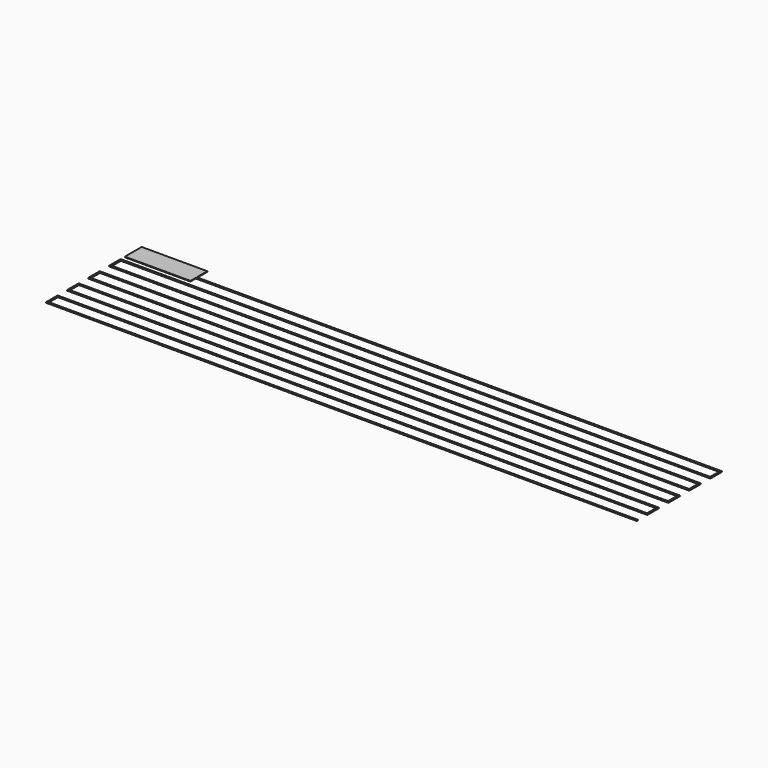
from build123d import *

# Parameters (mm, degrees)
F0_W     = 20
F0_H     = 0.4
F0_H_2   = 2
F0_H_3   = 4
F1_DEPTH = 0.2


with BuildPart() as f1:
    # F0 (on Top) → F1 (new body)
    with BuildSketch(Plane.XY):
        with Locations((-43.7241180241, 27.8777200698)):
            Rectangle(F0_W, F0_H)
        Polygon((-33.7241180241, 28.0777200698), (-33.7241180241, 27.6777200698), (125.8758819759, 27.6777200698), (125.8758819759, 24.0777200698), (-53.7241180241, 24.0777200698), (-53.7241180241, 19.6777200698), (125.8758819759, 19.6777200698), (125.8758819759, 16.0777200698), (-53.7241180241, 16.0777200698), (-53.7241180241, 11.6777200698), (125.8758819759, 11.6777200698), (125.8758819759, 8.0777200698), (-53.7241180241, 8.0777200698), (-53.7241180241, 3.6777200698), (125.8758819759, 3.6777200698), (125.8758819759, 0.0777200698), (-53.7241180241, 0.0777200698), (-53.7241180241, -4.3222799302), (126.2758819759, -4.3222799302), (126.2758819759, -3.9222799302), (-53.3241180241, -3.9222799302), (-53.3241180241, -0.3222799302), (126.2758819759, -0.3222799302), (126.2758819759, 4.0777200698), (-53.3241180241, 4.0777200698), (-53.3241180241, 7.6777200698), (126.2758819759, 7.6777200698), (126.2758819759, 12.0777200698), (-53.3241180241, 12.0777200698), (-53.3241180241, 15.6777200698), (126.2758819759, 15.6777200698), (126.2758819759, 20.0777200698), (-53.3241180241, 20.0777200698), (-53.3241180241, 23.6777200698), (126.2758819759, 23.6777200698), (126.2758819759, 28.0777200698), align=None)
        with Locations((-43.7241180241, 26.6777200698)):
            Rectangle(F0_W, F0_H_2)
        with Locations((-43.7241180241, 30.0777200698)):
            Rectangle(F0_W, F0_H_3)
        Polygon((-33.7241180241, 28.0777200698), (-33.7241180241, 27.6777200698), (125.8758819759, 27.6777200698), (125.8758819759, 24.0777200698), (-53.7241180241, 24.0777200698), (-53.7241180241, 19.6777200698), (125.8758819759, 19.6777200698), (125.8758819759, 16.0777200698), (-53.7241180241, 16.0777200698), (-53.7241180241, 11.6777200698), (125.8758819759, 11.6777200698), (125.8758819759, 8.0777200698), (-53.7241180241, 8.0777200698), (-53.7241180241, 3.6777200698), (125.8758819759, 3.6777200698), (125.8758819759, 0.0777200698), (-53.7241180241, 0.0777200698), (-53.7241180241, -4.3222799302), (126.2758819759, -4.3222799302), (126.2758819759, -3.9222799302), (-53.3241180241, -3.9222799302), (-53.3241180241, -0.3222799302), (126.2758819759, -0.3222799302), (126.2758819759, 4.0777200698), (-53.3241180241, 4.0777200698), (-53.3241180241, 7.6777200698), (126.2758819759, 7.6777200698), (126.2758819759, 12.0777200698), (-53.3241180241, 12.0777200698), (-53.3241180241, 15.6777200698), (126.2758819759, 15.6777200698), (126.2758819759, 20.0777200698), (-53.3241180241, 20.0777200698), (-53.3241180241, 23.6777200698), (126.2758819759, 23.6777200698), (126.2758819759, 28.0777200698), align=None)
    extrude(amount=F1_DEPTH)


solid = f1.part
